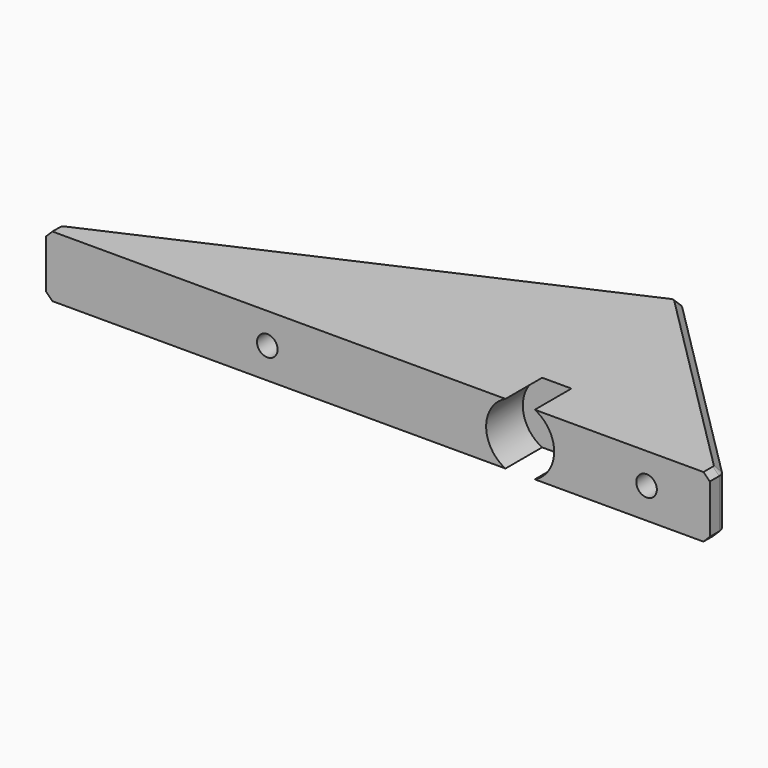
from build123d import *

# Parameters (mm, degrees)
F1_DEPTH  = 19.4
F2_R      = 3
F4_DEPTH  = 14.5
F5_R      = 3.25
F6_DEPTH  = 69.4177661804
F9_R      = 6.75
F10_DEPTH = 62.9177661804
F11_SIZE  = 2


with BuildPart() as f1:
    # F0 (on Top) → F1 (new body)
    with BuildSketch(Plane.XY):
        Polygon((-105, -39.9503339168), (-105, -44.9503339168), (105, -44.9503339168), (105, -39.9503339168), (40, 25.0496660832), align=None)
    extrude(amount=F1_DEPTH)

    # F2
    f2_edges = [f1.edges().sort_by_distance(p)[0] for p in [
        (40, 25.049666, 9.7),
        (105, -39.950334, 9.7),
        (-105, -39.950334, 9.7),
    ]]
    fillet(f2_edges, radius=F2_R)

    # F3 (on face) → F4 (cut)
    with BuildSketch(Plane.XZ.offset(44.9503339168)):
        with BuildLine():
            ThreePointArc((49.6338428976, 0), (54.0933027869, 3.9663846985), (55.75, 9.7))
            ThreePointArc((55.75, 9.7), (54.0933027869, 15.4336153015), (49.6338428976, 19.4))
            Line((49.6338428976, 19.4), (40.3661571024, 19.4))
            ThreePointArc((40.3661571024, 19.4), (34.25, 9.7), (40.3661571024, 0))
            Line((40.3661571024, 0), (49.6338428976, 0))
        make_face()
    extrude(amount=-F4_DEPTH, mode=Mode.SUBTRACT)

    # F5 (on face) → F6 (cut, through all)
    with BuildSketch(Plane.XZ.offset(44.9503339168)):
        with Locations((-35, 9.7000030801)):
            Circle(F5_R)
        with Locations((85, 9.7000030801)):
            Circle(F5_R)
    extrude(amount=-F6_DEPTH, mode=Mode.SUBTRACT)

    # F9 (on offset) → F10 (cut, through all)
    with BuildSketch(Plane.XZ.offset(38.4503339168)):
        with Locations((85, 9.7000030801)):
            Circle(F9_R)
        with Locations((-35, 9.7000030801)):
            Circle(F9_R)
    extrude(amount=-F10_DEPTH, mode=Mode.SUBTRACT)

    # F11
    f11_edges = [f1.edges().sort_by_distance(p)[0] for p in [
        (-105, -43.421739, 19.4),
        (-104.518085, -40.262424, 19.4),
        (-32.556871, -7.475828, 19.4),
        (39.883553, 24.416889, 19.4),
        (72.791617, -7.741951, 19.4),
        (105, -43.071654, 19.4),
        (72.791617, -7.741951, 0),
    ]]
    chamfer(f11_edges, length=F11_SIZE)


solid = f1.part
